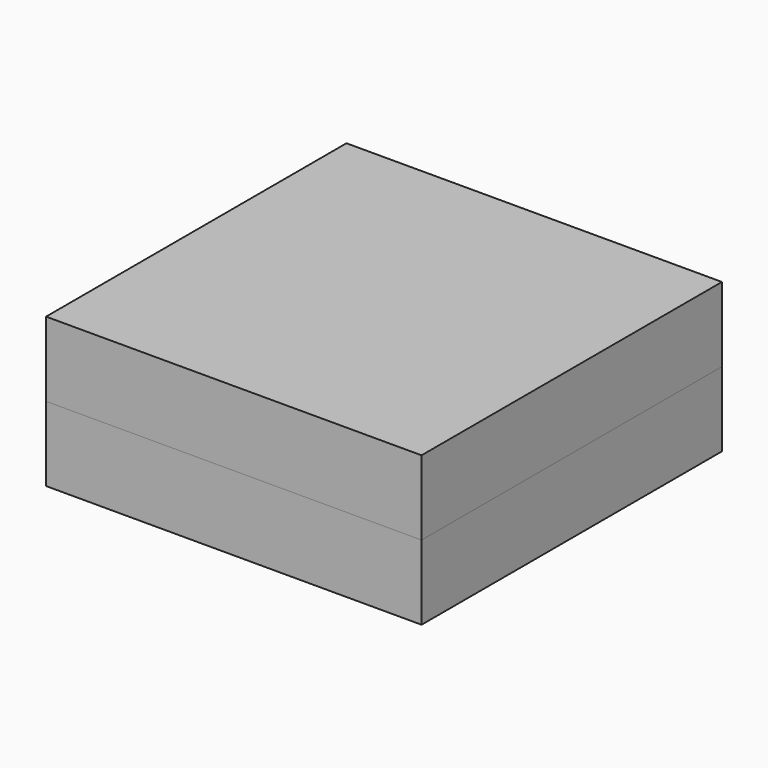
from build123d import *

# Parameters (mm, degrees)
F0_W      = 25.572319
F0_H      = 25.572313
F1_DEPTH  = 5.08
F1_FACE_W = 25.572318
F1_FACE_H = 25.572312
F2_DEPTH  = 5.08


with BuildPart() as f1:
    # F0 (on Top) → F1 (new body)
    with BuildSketch(Plane.XY):
        with Locations((-12.78616, 12.786156)):
            Rectangle(F0_W, F0_H)
    extrude(amount=F1_DEPTH)


with BuildPart() as f2:
    # F1_face (on face) → F2 (new body)
    with BuildSketch(Plane(origin=(-12.786159, 12.786156, 5.08), x_dir=(1, 0, 0), z_dir=(0, 0, 1))):
        Rectangle(F1_FACE_W, F1_FACE_H)
    extrude(amount=F2_DEPTH)


solid = Compound([f1.part, f2.part])
